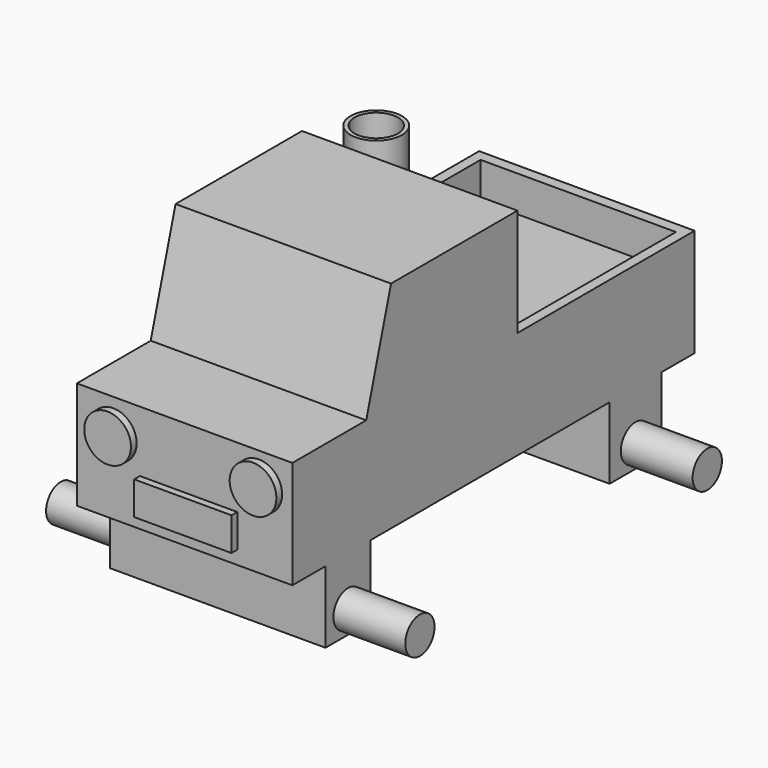
from build123d import *

# Parameters (mm, degrees)
F0_W      = 177.8
F0_H      = 38.1
F1_DEPTH  = 76.2
F2_W      = 76.2
F2_H      = 66.864574
F3_DEPTH  = 38.1
F5_DEPTH  = 101.6
F6_R      = 8.255
F6_W      = 34.409892
F6_H      = 11.749721
F7_DEPTH  = 2.54
F8_W      = 69.088
F8_H      = 70.676456
F9_DEPTH  = 12.7
F10_R     = 9.097669
F11_DEPTH = 50.8
F12_R     = 7.663918
F13_DEPTH = 50.8
F14_W     = 76.2
F14_H     = 22.849783
F14_H_2   = 19.950157
F15_DEPTH = 25.4
F16_R     = 6.477
F17_DEPTH = 25.4
F18_R     = 6.477
F19_DEPTH = 25.4


with BuildPart() as f1:
    # F0 (on Right) → F1 (new body)
    with BuildSketch(Plane.YZ):
        with Locations((50.520241, -2.619057)):
            Rectangle(F0_W, F0_H)
    extrude(amount=F1_DEPTH)

    # F2 (on face) → F3 (join)
    with BuildSketch(Plane.XY.offset(16.430943)):
        with Locations((38.1, 27.691498)):
            Rectangle(F2_W, F2_H)
    extrude(amount=F3_DEPTH)

    # F4 (on face) → F5 (cut)
    with BuildSketch(Plane.YZ.offset(76.2)):
        Polygon((-5.740789, 54.530943), (-5.740789, 16.430943), (5.230976, 54.530943), align=None)
    extrude(amount=-F5_DEPTH, mode=Mode.SUBTRACT)

    # F6 (on face) → F7 (join)
    with BuildSketch(Plane.XZ.offset(38.379759)):
        with Locations((12.890441, 4.621061)):
            Circle(F6_R)
        with Locations((64.323008, 5.436914)):
            Circle(F6_R)
        with Locations((39.508564, -11.050332)):
            Rectangle(F6_W, F6_H)
    extrude(amount=F7_DEPTH)

    # F8 (on face) → F9 (cut)
    with BuildSketch(Plane.XY.offset(16.430943)):
        with Locations((38.1, 100.272013)):
            Rectangle(F8_W, F8_H)
    extrude(amount=-F9_DEPTH, mode=Mode.SUBTRACT)

    # F10 (on face) → F11 (join)
    with BuildSketch(Plane.XY.offset(3.730943)):
        with Locations((13.950241, 76.503314)):
            Circle(F10_R)
    extrude(amount=F11_DEPTH)

    # F12 (on face) → F13 (cut)
    with BuildSketch(Plane.XY.offset(54.530943)):
        with Locations((13.950241, 76.503314)):
            Circle(F12_R)
    extrude(amount=-F13_DEPTH, mode=Mode.SUBTRACT)

    # F14 (on face) → F15 (join)
    with BuildSketch(Plane(origin=(0, 0, -21.669057), x_dir=(1, 0, 0), z_dir=(0, 0, -1))):
        with Locations((38.1, -113.258853)):
            Rectangle(F14_W, F14_H)
        with Locations((38.1, 13.76035)):
            Rectangle(F14_W, F14_H_2)
    extrude(amount=F15_DEPTH)

    # F16 (on face) → F17 (join)
    with BuildSketch(Plane.YZ.offset(76.2)):
        with Locations((-13.76035, -38.966457)):
            Circle(F16_R)
        with Locations((113.258854, -38.966457)):
            Circle(F16_R)
    extrude(amount=F17_DEPTH)

    # F18 (on face) → F19 (join)
    with BuildSketch(Plane(origin=(0, 0, 0), x_dir=(0, -1, 0), z_dir=(-1, 0, 0))):
        with Locations((-113.258854, -38.966457)):
            Circle(F18_R)
        with Locations((13.76035, -38.966457)):
            Circle(F18_R)
    extrude(amount=F19_DEPTH)


solid = f1.part
